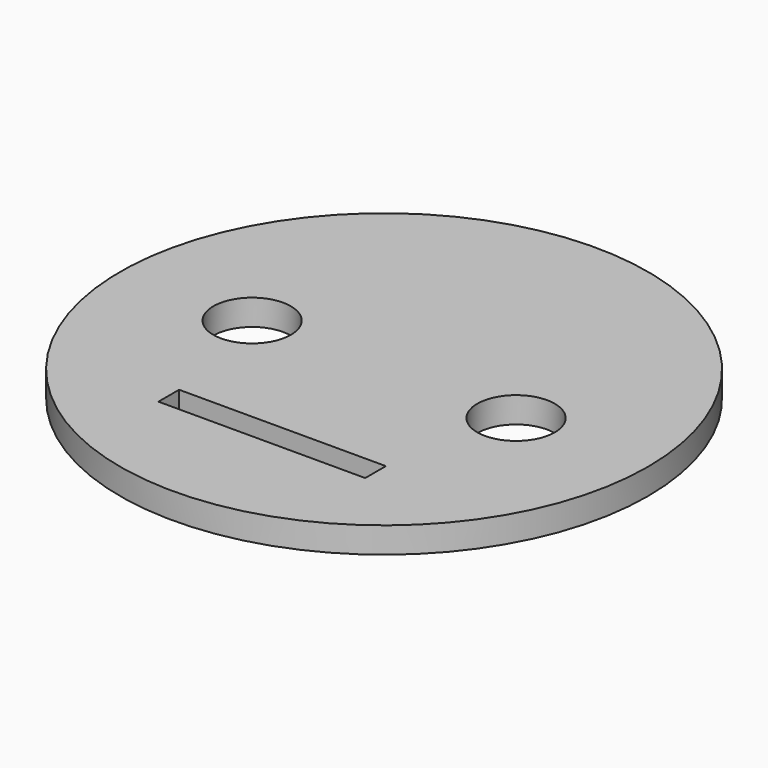
from build123d import *

# Parameters (mm, degrees)
F0_R     = 32.4231
F0_W     = 25.4
F0_H     = 3.175
F0_R_2   = 4.7625
F1_DEPTH = 3.175


with BuildPart() as f1:
    # F0 (on Top) → F1 (new body)
    with BuildSketch(Plane.XY):
        Circle(F0_R)
        with Locations((0, -17.18679)):
            Rectangle(F0_W, F0_H, mode=Mode.SUBTRACT)
        with Locations((-16.21155, 0)):
            Circle(F0_R_2, mode=Mode.SUBTRACT)
        with Locations((16.21155, 0)):
            Circle(F0_R_2, mode=Mode.SUBTRACT)
    extrude(amount=F1_DEPTH)


solid = f1.part
